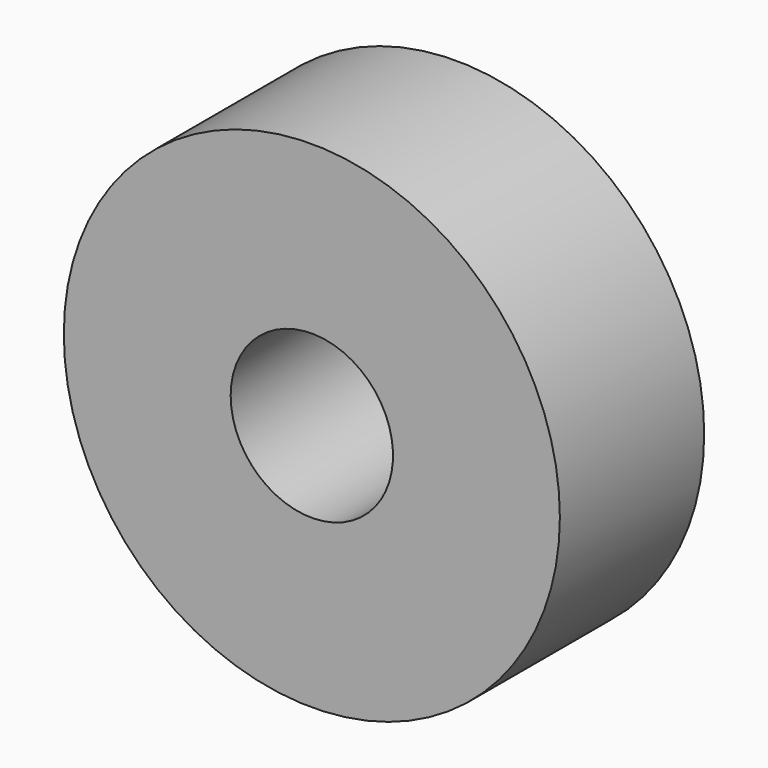
from build123d import *

# Parameters (mm, degrees)
CYLINDER015_R            = 0.9
CYLINDER015_DEPTH        = 2
CYLINDER014_R            = 2.75
CYLINDER014_DEPTH        = 2
CLONE025_PLACEMENT_ANGLE = 90


with BuildPart() as faceanchorscrewhole:
    # Cylinder015 → Cylinder015 (new body)
    with BuildSketch(Plane.XY):
        Circle(CYLINDER015_R)
    extrude(amount=CYLINDER015_DEPTH)


with BuildPart() as faceanchor004:
    # Cylinder014 → Cylinder014 (new body)
    with BuildSketch(Plane.XY):
        Circle(CYLINDER014_R)
    extrude(amount=CYLINDER014_DEPTH)

    # Cut015: cut FaceAnchorScrewHole
    add(faceanchorscrewhole.part, mode=Mode.SUBTRACT)


with BuildPart() as faceanchor004_1:
    # Clone025 placement: moved
    add(faceanchor004.part.moved(Location((-9, 2, 47))).rotate(Axis((-9, 2, 47), (1, 0, 0)), CLONE025_PLACEMENT_ANGLE))


with BuildPart() as part_mirroring027:
    # Part__Mirroring027: instance of FaceAnchor004
    add(faceanchor004_1.part.mirror(Plane(origin=(87, 0, 0), x_dir=(0, -1, 0), z_dir=(1, 0, 0))))


solid = part_mirroring027.part
